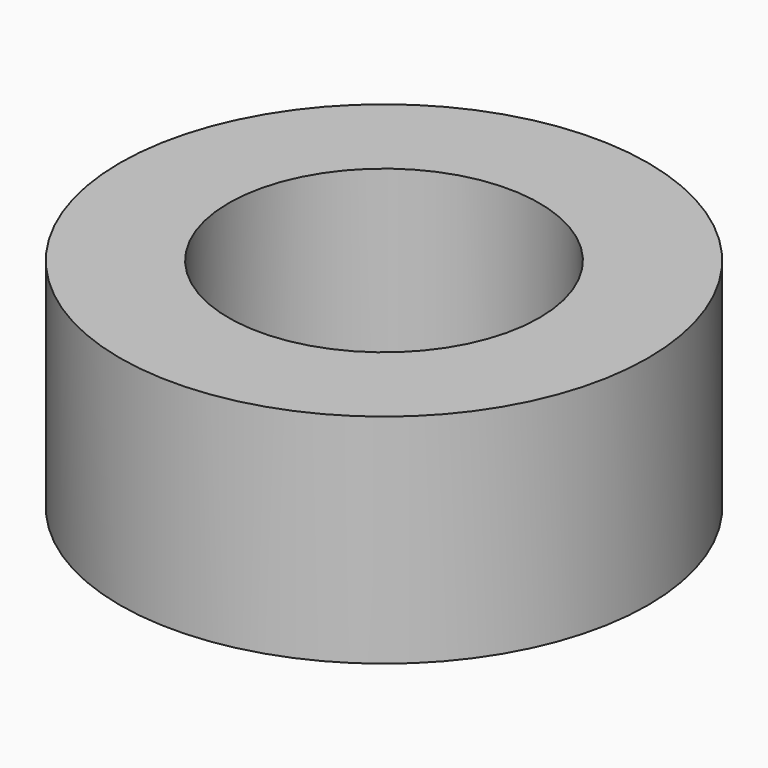
from build123d import *

# Parameters (mm, degrees)
CYLINDER025_R     = 5
CYLINDER025_DEPTH = 7
CYLINDER023_R     = 8.5
CYLINDER023_DEPTH = 7


with BuildPart() as extensionhole:
    # Cylinder025 → Cylinder025 (new body)
    with BuildSketch(Plane.XY):
        Circle(CYLINDER025_R)
    extrude(amount=CYLINDER025_DEPTH)


with BuildPart() as extension:
    # Cylinder023 → Cylinder023 (new body)
    with BuildSketch(Plane.XY):
        Circle(CYLINDER023_R)
    extrude(amount=CYLINDER023_DEPTH)

    # Cut006: cut ExtensionHole
    add(extensionhole.part, mode=Mode.SUBTRACT)


solid = extension.part
